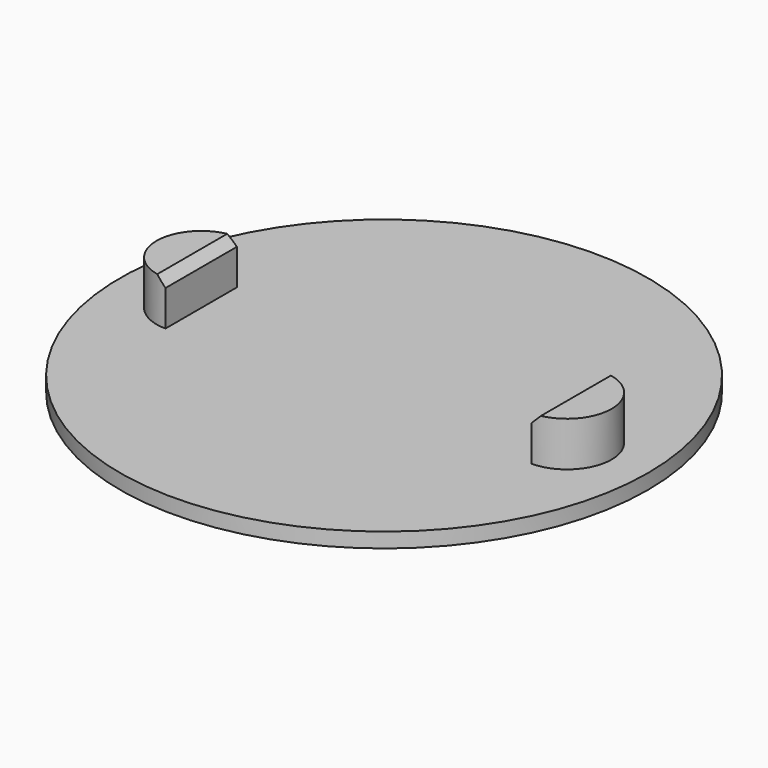
from build123d import *

# Parameters (mm, degrees)
F0_R     = 8.875
F1_DEPTH = 0.5
F3_DEPTH = 1.5
F4_SIZE  = 0.3


with BuildPart() as f1:
    # F0 (on Top) → F1 (new body)
    with BuildSketch(Plane.XY):
        Circle(F0_R)
    extrude(amount=F1_DEPTH)

    # F2 (on face) → F3 (join)
    with BuildSketch(Plane.XY.offset(0.5)):
        with BuildLine():
            Line((-6.15, -1.5), (-6.15, 1.5))
            ThreePointArc((-6.15, 1.5), (-7.65, 0), (-6.15, -1.5))
        make_face()
        with BuildLine():
            ThreePointArc((6.15, -1.5), (7.65, 0), (6.15, 1.5))
            Line((6.15, 1.5), (6.15, -1.5))
        make_face()
    extrude(amount=F3_DEPTH)

    # F4
    f4_edges = [f1.edges().sort_by_distance(p)[0] for p in [
        (-6.15, 0, 2),
        (6.15, 0, 2),
    ]]
    chamfer(f4_edges, length=F4_SIZE)


solid = f1.part
